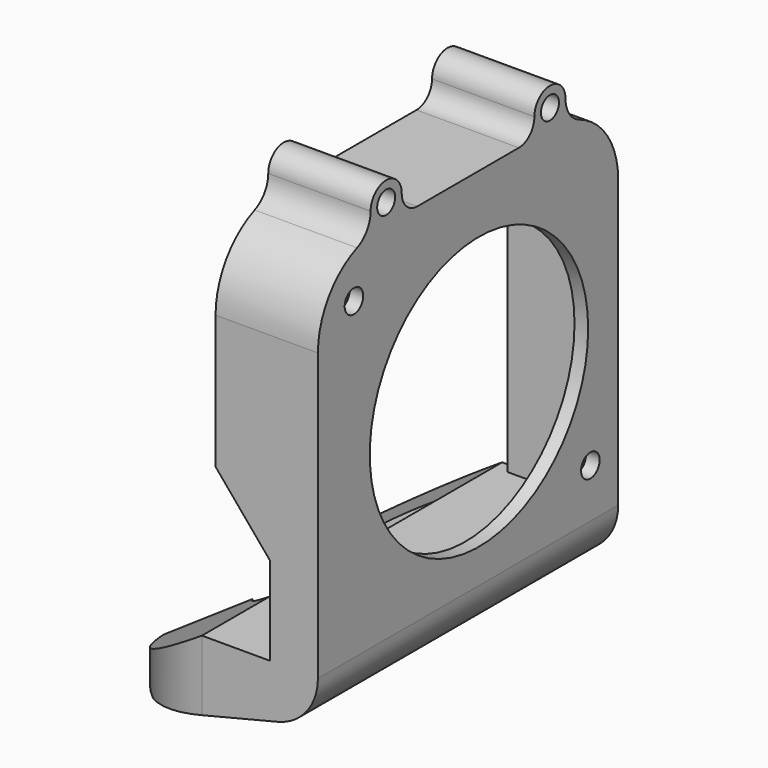
from build123d import *

# Parameters (mm, degrees)
PAD041_DEPTH    = 15
POCKET053_DEPTH = 13
SKETCH111_R     = 1.65
SKETCH111_R_2   = 1.7
SKETCH111_R_3   = 20
POCKET054_DEPTH = 15
POCKET055_DEPTH = 5
PAD042_DEPTH    = 55
POCKET056_DEPTH = 208.356468


with BuildPart() as part:
    # Sketch109 → Pad041 (new body)
    with BuildSketch(Plane.YZ):
        with BuildLine():
            Line((27.5, -9.253658), (27.5, -51.25))
            Line((27.5, -51.25), (-27.5, -51.25))
            Line((-27.5, -51.25), (-27.5, -9.253658))
            ThreePointArc((-20.340323, 1.39583), (-25.543681, -2.837417), (-27.5, -9.253658))
            ThreePointArc((-20.340323, 1.39583), (-18.530459, 2.868264), (-17.85, 5.1))
            ThreePointArc((-12.15, 5.1), (-15, 7.95), (-17.85, 5.1))
            ThreePointArc((-12.15, 5.1), (-11.315254, 3.084746), (-9.3, 2.25))
            Line((-9.3, 2.25), (9.3, 2.25))
            ThreePointArc((9.3, 2.25), (11.315254, 3.084746), (12.15, 5.1))
            ThreePointArc((17.85, 5.1), (15, 7.95), (12.15, 5.1))
            ThreePointArc((17.85, 5.1), (18.530459, 2.868264), (20.340323, 1.39583))
            ThreePointArc((27.5, -9.253658), (25.543681, -2.837417), (20.340323, 1.39583))
        make_face()
    extrude(amount=-PAD041_DEPTH)

    # Sketch110 (on Face14 of Pad041) → Pocket053 (cut)
    with BuildSketch(Plane(origin=(-15, 0, 0), x_dir=(0, -1, 0), z_dir=(-1, 0, 0))):
        with BuildLine():
            Line((-26, -9.253658), (-26, -51.25))
            Line((-26, -51.25), (26, -51.25))
            Line((26, -51.25), (26, -9.253658))
            ThreePointArc((26, -9.253658), (23.071068, -2.18259), (16, 0.746342))
            Line((-16, 0.746342), (16, 0.746342))
            ThreePointArc((-16, 0.746342), (-23.071068, -2.18259), (-26, -9.253658))
        make_face()
    extrude(amount=-POCKET053_DEPTH, mode=Mode.SUBTRACT)

    # Sketch111 (on Face4 of Pocket053) → Pocket054 (cut)
    with BuildSketch(Plane.YZ):
        with Locations((-15, 5.1)):
            Circle(SKETCH111_R)
        with Locations((15, 5.1)):
            Circle(SKETCH111_R)
        with Locations((22.4, -44.05)):
            Circle(SKETCH111_R_2)
        with Locations((-20.9, -5.25)):
            Circle(SKETCH111_R_2)
        with Locations((2, -26.25)):
            Circle(SKETCH111_R_3)
    extrude(amount=-POCKET054_DEPTH, mode=Mode.SUBTRACT)

    # Sketch112 (on Face11 of Pocket054) → Pocket055 (cut)
    with BuildSketch(Plane(origin=(0, -27.5, 0), x_dir=(0, 0, 1), z_dir=(0, -1, 0))):
        Polygon((-51.25, 15), (-28.815971, 15), (-38.35, 7), (-51.25, 7), align=None)
    extrude(amount=-POCKET055_DEPTH, mode=Mode.SUBTRACT)

    # Sketch114 (on Face7 of Pocket055) → Pad042 (join)
    with BuildSketch(Plane.XZ.offset(-27.5)):
        with BuildLine():
            ThreePointArc((-5.864892, -58.75), (-1.6403, -56.01044), (0, -51.25))
            Line((0, -51.25), (-17, -51.25))
            Line((-17, -51.25), (-36.926579, -64))
            Line((-36.926579, -64), (-27, -64))
            Line((-27, -64), (-5.864892, -58.75))
        make_face()
    extrude(amount=PAD042_DEPTH)

    # Sketch115 (on Face20 of Pad042) → Pocket056 (cut, through all)
    with BuildSketch(Plane(origin=(0, 0, -51.25), x_dir=(0, -1, 0), z_dir=(0, 0, 1))):
        with BuildLine():
            Line((-27.5, -17), (-27.5, -43))
            Line((-27.5, -43), (0, -43))
            Line((0, -43), (0, -17))
            Line((0, -17), (-15.050161, -17))
            ThreePointArc((-15.050161, -17), (-14.226455, -19.908295), (-12, -21.952695))
            Line((-12, -21.952695), (-15.2, -32.476953))
            ThreePointArc((-27.5, -17), (-24.05052, -26.884661), (-15.2, -32.476953))
        make_face()
    pocket056 = extrude(amount=-POCKET056_DEPTH, mode=Mode.SUBTRACT)

    # Mirrored001: Pocket056 across Sketch115 V_Axis
    add(pocket056.mirror(Plane(origin=(0, 0, -51.25), x_dir=(0, 0, 1), z_dir=(0, -1, 0))), mode=Mode.SUBTRACT)


with BuildPart() as part_1:
    # Body015 placement: moved
    add(part.part.moved(Location((32, 0, 0))))


solid = part_1.part
